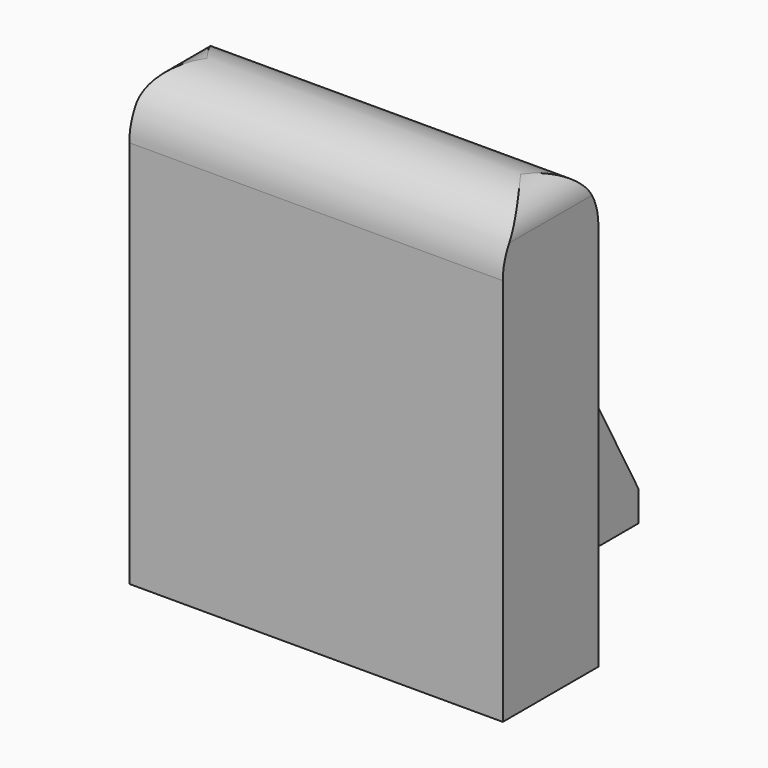
from build123d import *

# Parameters (mm, degrees)
F0_W     = 8
F0_H     = 26
F1_DEPTH = 12.5
F3_DEPTH = 4
F5_DEPTH = 25


with BuildPart() as f1:
    # F0 (on Right) → F1 (new body, symmetric)
    with BuildSketch(Plane.YZ):
        with Locations((4, 13)):
            Rectangle(F0_W, F0_H)
        with BuildLine():
            ThreePointArc((8, 26), (4, 30), (0, 26))
            Line((0, 26), (8, 26))
        make_face()
    extrude(amount=F1_DEPTH, both=True)

    # F2 (on Right) → F3 (join, symmetric)
    with BuildSketch(Plane.YZ):
        Polygon((8, 24), (8, 0), (22, 0), (22, 2), (10, 24), align=None)
    extrude(amount=F3_DEPTH, both=True)

    # F4 (on Front) → F5 (cut)
    with BuildSketch(Plane.XZ):
        with BuildLine():
            Line((-10.5, 30), (-12.5, 30))
            Line((-12.5, 30), (-12.5, 28))
            ThreePointArc((-12.5, 28), (-11.914214, 29.414214), (-10.5, 30))
        make_face()
        with BuildLine():
            ThreePointArc((10.5, 30), (11.914214, 29.414214), (12.5, 28))
            Line((12.5, 28), (12.5, 30))
            Line((12.5, 30), (10.5, 30))
        make_face()
    extrude(amount=-F5_DEPTH, mode=Mode.SUBTRACT)


solid = f1.part
